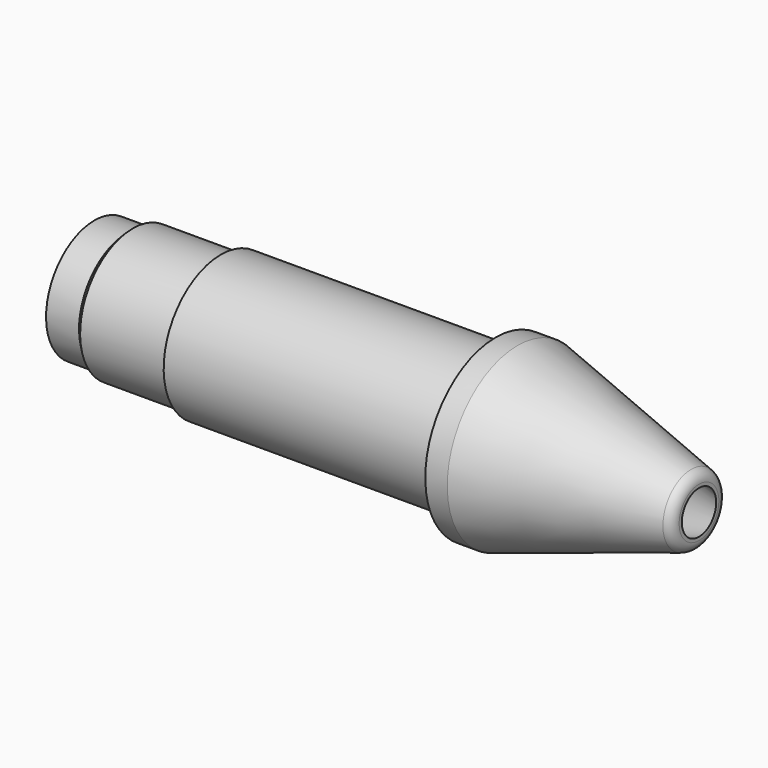
from build123d import *

# Parameters (mm, degrees)
F2_T = -1
F3_R = 1


with BuildPart() as f4:
    # F0 (on Front) → F4 (revolve)
    with BuildSketch(Plane.XZ):
        Polygon((0, 5.5), (0, 0), (55, 0), (55, 3), (38.5, 8), (36.5, 8), (36.5, 6.5), (11.5, 6.5), (11.5, 6), (3.5, 6), (3, 5.5), align=None)
    revolve(axis=Axis((5.4076574743, 0, 0), (1, 0, 0)))

    # F2
    f2_openings = [f4.faces().sort_by_distance(p)[0] for p in [
        (0, 0, 0),
        (55, 0, 0),
    ]]
    offset(amount=F2_T, openings=f2_openings, kind=Kind.INTERSECTION)

    # F3
    f3_edges = [f4.edges().sort_by_distance(p)[0] for p in [
        (55, 0, -3),
    ]]
    fillet(f3_edges, radius=F3_R)


solid = f4.part
